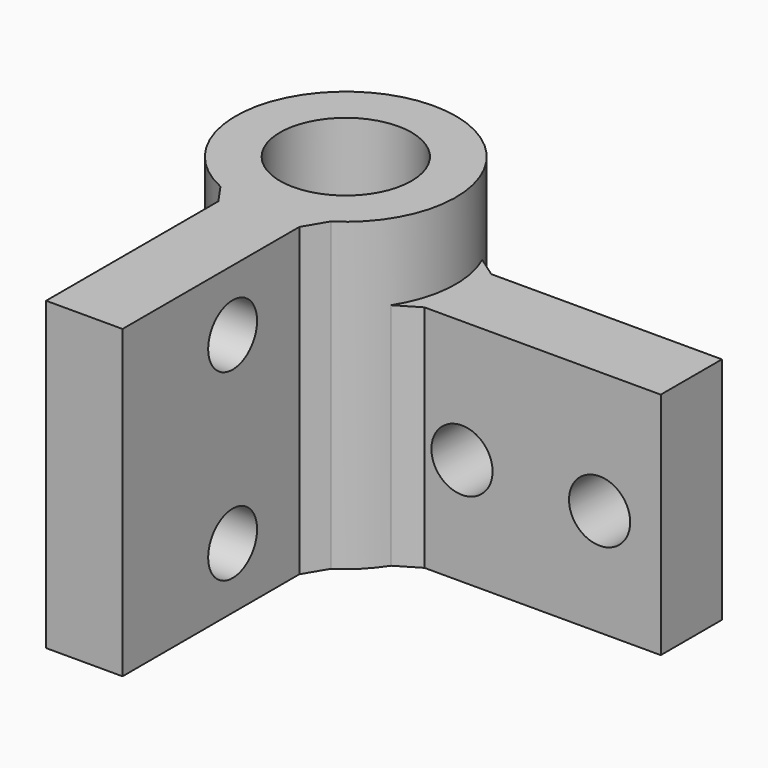
from build123d import *

# Parameters (mm, degrees)
CYLINDER036_R          = 4.3
CYLINDER036_DEPTH      = 200
CYLINDER043_R          = 2
CYLINDER043_DEPTH      = 10
CYLINDER043_ROLL_ANGLE = 90
CYLINDER042_R          = 2
CYLINDER042_DEPTH      = 10
CYLINDER042_ROLL_ANGLE = 90
BOX010_W               = 24
BOX010_H               = 5
BOX010_DEPTH           = 15
CYLINDER044_R          = 2
CYLINDER044_DEPTH      = 10
CYLINDER045_R          = 2
CYLINDER045_DEPTH      = 10
BOX011_W               = 19
BOX011_H               = 5
BOX011_DEPTH           = 20
BOX011_PLACEMENT_ANGLE = -90
CYLINDER041_R          = 7.2
CYLINDER041_DEPTH      = 20
CHAMFER006_SIZE        = 1


with BuildPart() as cilindro033:
    # Cylinder036 → Cylinder036 (new body)
    with BuildSketch(Plane(origin=(57, -40, -29), x_dir=(1, 0, 0), z_dir=(0, 0, 1))):
        Circle(CYLINDER036_R)
    extrude(amount=CYLINDER036_DEPTH)


with BuildPart() as cilindro040:
    # Cylinder043 → Cylinder043 (new body)
    with BuildSketch(Plane.XY):
        Circle(CYLINDER043_R)
    extrude(amount=CYLINDER043_DEPTH)


with BuildPart() as cilindro040_1:
    # Cylinder043 roll: moved
    add(cilindro040.part.rotate(Axis((0, 0, 0), (1, 0, 0)), CYLINDER043_ROLL_ANGLE))


with BuildPart() as cilindro040_2:
    # Cylinder043 placement: moved
    add(cilindro040_1.part.moved(Location((76, -37, 30))))


with BuildPart() as fusion007:
    # Cylinder042 → Cylinder042 (new body)
    with BuildSketch(Plane.XY):
        Circle(CYLINDER042_R)
    extrude(amount=CYLINDER042_DEPTH)


with BuildPart() as fusion007_1:
    # Cylinder042 roll: moved
    add(fusion007.part.rotate(Axis((0, 0, 0), (1, 0, 0)), CYLINDER042_ROLL_ANGLE))


with BuildPart() as fusion007_2:
    # Cylinder042 placement: moved
    add(fusion007_1.part.moved(Location((67, -37, 30))))

    # Fusion007: union Cilindro040
    add(cilindro040_2.part)


with BuildPart() as cut032:
    # Box010 → Box010 (new body)
    with BuildSketch(Plane(origin=(56, -43, 23), x_dir=(1, 0, 0), z_dir=(0, 0, 1))):
        with Locations((12, 2.5)):
            Rectangle(BOX010_W, BOX010_H)
    extrude(amount=BOX010_DEPTH)

    # Cut032: cut Fusion007
    add(fusion007_2.part, mode=Mode.SUBTRACT)


with BuildPart() as cut032_1:
    # Cut032 placement: moved
    add(cut032.part.moved(Location((0, 0, -2))))


with BuildPart() as cilindro041:
    # Cylinder044 → Cylinder044 (new body)
    with BuildSketch(Plane(origin=(63, -53, 25), x_dir=(0, -1, 0), z_dir=(-1, 0, 0))):
        Circle(CYLINDER044_R)
    extrude(amount=CYLINDER044_DEPTH)


with BuildPart() as fusion008:
    # Cylinder045 → Cylinder045 (new body)
    with BuildSketch(Plane(origin=(63, -53, 37), x_dir=(0, -1, 0), z_dir=(-1, 0, 0))):
        Circle(CYLINDER045_R)
    extrude(amount=CYLINDER045_DEPTH)

    # Fusion008: union Cilindro041
    add(cilindro041.part)


with BuildPart() as cut033:
    # Box011 → Box011 (new body)
    with BuildSketch(Plane.XY):
        with Locations((9.5, 2.5)):
            Rectangle(BOX011_W, BOX011_H)
    extrude(amount=BOX011_DEPTH)


with BuildPart() as cut033_1:
    # Box011 placement: moved
    add(cut033.part.moved(Location((55, -43, 21))).rotate(Axis((55, -43, 21), (0, 0, 1)), BOX011_PLACEMENT_ANGLE))

    # Cut033: cut Fusion008
    add(fusion008.part, mode=Mode.SUBTRACT)


with BuildPart() as rodamiento_lineal:
    # Cylinder041 → Cylinder041 (new body)
    with BuildSketch(Plane(origin=(57, -40, 21), x_dir=(1, 0, 0), z_dir=(0, 0, 1))):
        Circle(CYLINDER041_R)
    extrude(amount=CYLINDER041_DEPTH)

    # Fusion009: union Cut032, Cut033
    add(cut032_1.part)
    add(cut033_1.part)

    # Chamfer006
    chamfer006_edges = [rodamiento_lineal.edges().sort_by_distance(p)[0] for p in [
        (63.916647, -38, 28.5),
        (63.545227, -43, 28.5),
        (55, -46.916647, 31),
        (60, -46.545227, 31),
    ]]
    chamfer(chamfer006_edges, length=CHAMFER006_SIZE)

    # Cut034: cut Cilindro033
    add(cilindro033.part, mode=Mode.SUBTRACT)


solid = rodamiento_lineal.part
